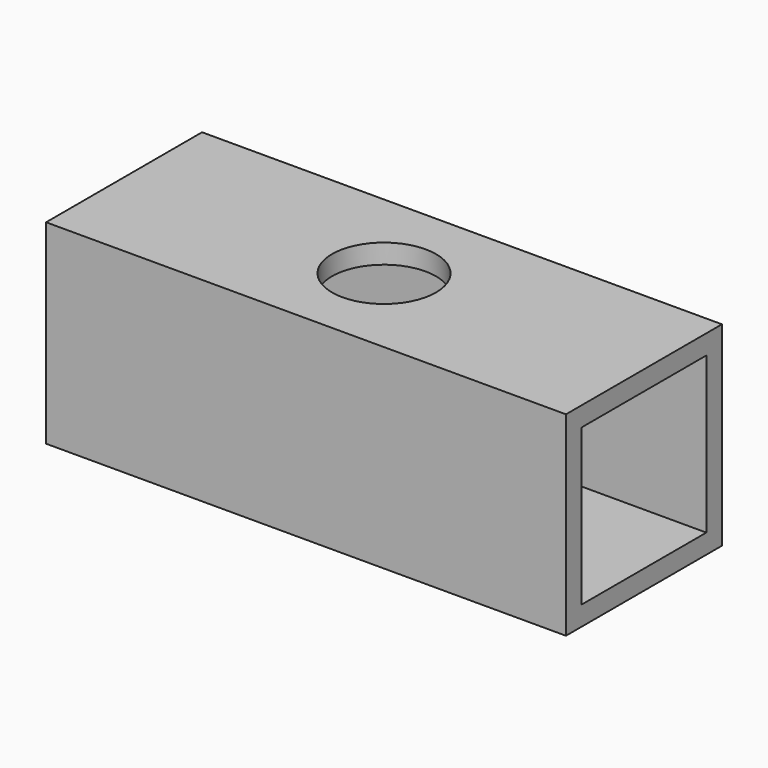
from build123d import *

# Parameters (mm, degrees)
F0_W     = 7.5
F0_H     = 7.5
F0_W_2   = 6
F0_H_2   = 6
F1_DEPTH = 10
F2_R     = 2
F3_DEPTH = 25


with BuildPart() as f1:
    # F0 (on Right) → F1 (new body, symmetric)
    with BuildSketch(Plane.YZ):
        Rectangle(F0_W, F0_H)
        Rectangle(F0_W_2, F0_H_2, mode=Mode.SUBTRACT)
    extrude(amount=F1_DEPTH, both=True)

    # F2 (on face) → F3 (cut)
    with BuildSketch(Plane.XY.offset(3.75)):
        Circle(F2_R)
    extrude(amount=-F3_DEPTH, mode=Mode.SUBTRACT)


solid = f1.part
